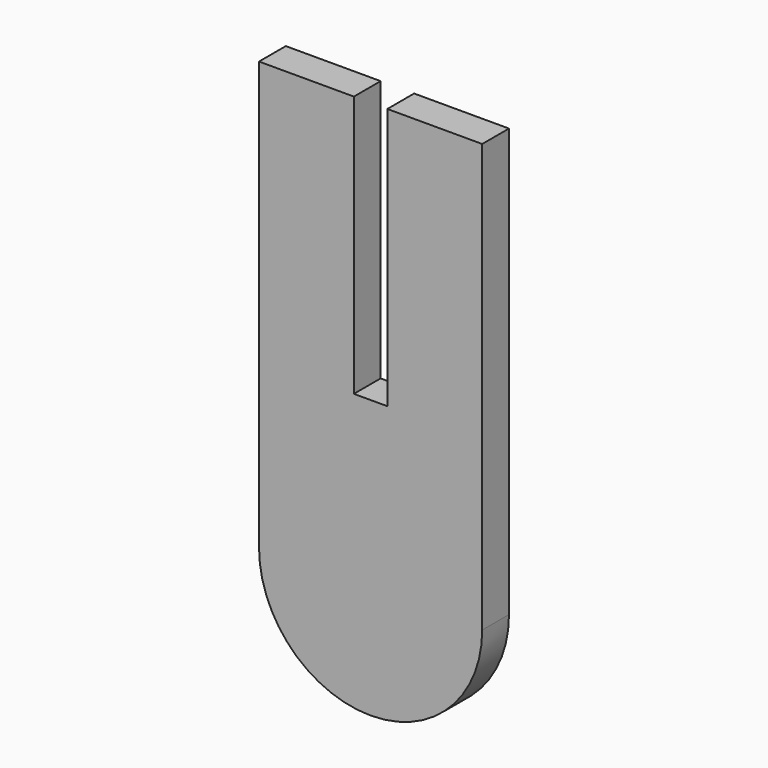
from build123d import *

# Parameters (mm, degrees)
F1_DEPTH = 3


with BuildPart() as f1:
    # F0 (on Front) → F1 (new body)
    with BuildSketch(Plane.XZ):
        with BuildLine():
            Line((-10, 38.34), (-10, 0))
            ThreePointArc((-10, 0), (0, -10), (10, 0))
            Line((10, 0), (10, 38.34))
            Line((10, 38.34), (1.5, 38.34))
            Line((1.5, 38.34), (1.5, 14.89))
            Line((1.5, 14.89), (-1.5, 14.89))
            Line((-1.5, 14.89), (-1.5, 38.34))
            Line((-1.5, 38.34), (-10, 38.34))
        make_face()
    extrude(amount=F1_DEPTH)


solid = f1.part
